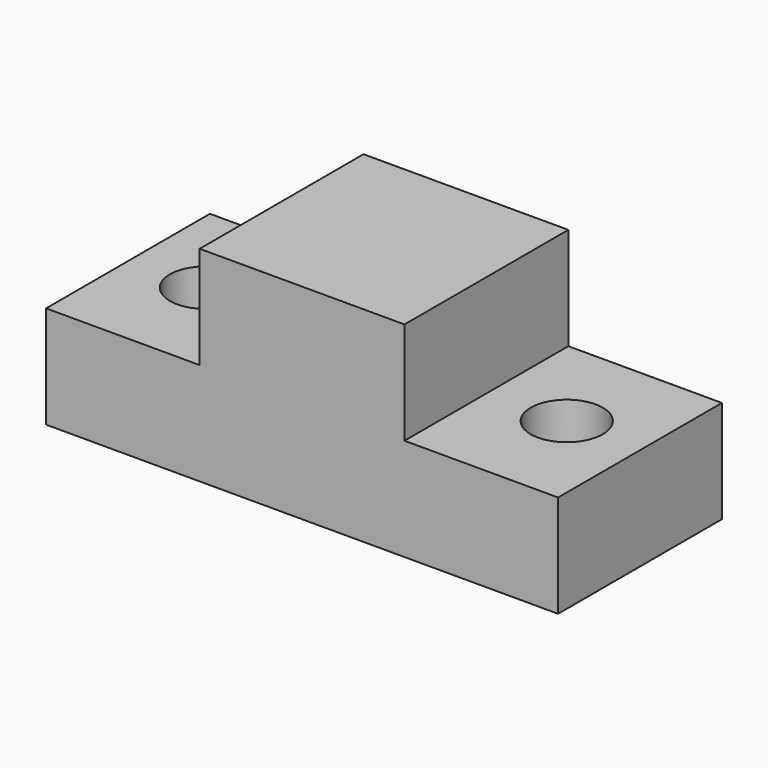
from build123d import *

# Parameters (mm, degrees)
F1_DEPTH = 25.4
F2_R     = 4.468901
F3_DEPTH = 25.4


with BuildPart() as f1:
    # F0 (on Front) → F1 (new body)
    with BuildSketch(Plane.XZ):
        Polygon((0, -25.4), (0, 0), (-12.7, 0), (-12.7, -12.7), (-31.75, -12.7), (-31.75, -25.4), align=None)
    extrude(amount=F1_DEPTH)

    # F2 (on face) → F3 (cut)
    with BuildSketch(Plane.XY.offset(-12.7)):
        with Locations((-22.377703, -12.341406)):
            Circle(F2_R)
    extrude(amount=-F3_DEPTH, mode=Mode.SUBTRACT)

    # F4: F1 across plane


with BuildPart() as f1_1:
    add(f1.part)
    add(f1.part.mirror(Plane.YZ))


solid = f1_1.part
